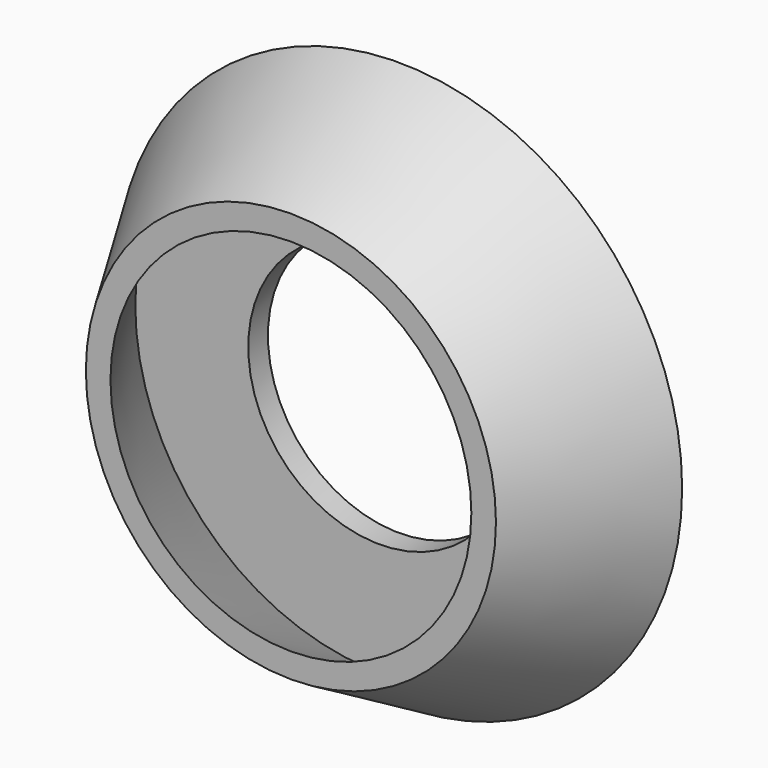
from build123d import *

# Parameters (mm, degrees)
SKETCH001_R  = 16
POCKET_DEPTH = 16.501


with BuildPart() as part:
    # Sketch → Revolution (revolve)
    with BuildSketch(Plane.XY):
        Polygon((25, 0), (22, 0), (29.772727, 13.5), (0, 13.5), (0, 16.5), (34.5, 16.5), align=None)
    revolve(axis=Axis((0, 0, 0), (0, 1, 0)))

    # Sketch001 → Pocket (cut, through all)
    with BuildSketch(Plane.XZ):
        Circle(SKETCH001_R)
    extrude(amount=-POCKET_DEPTH, mode=Mode.SUBTRACT)


solid = part.part
